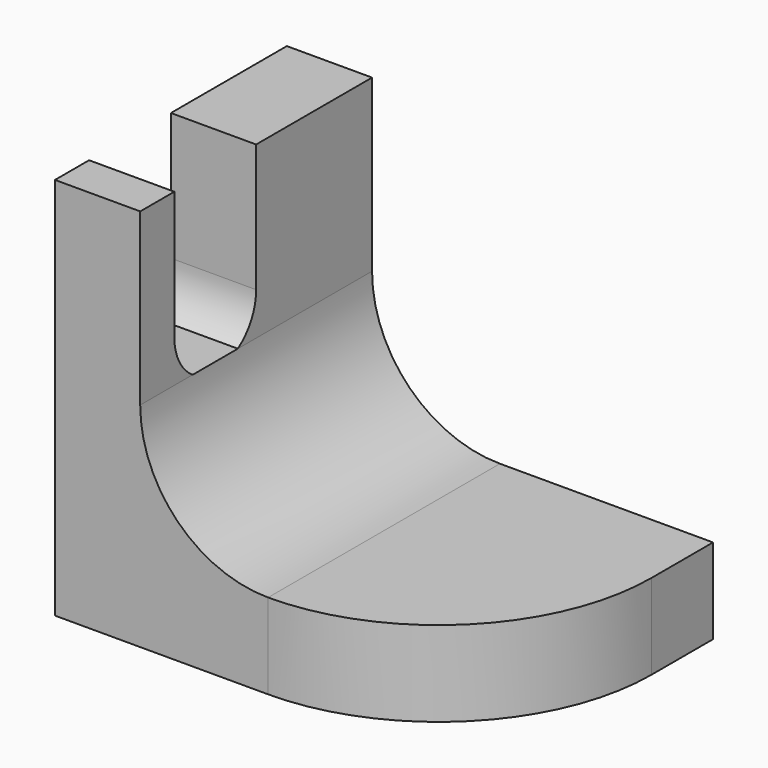
from build123d import *

# Parameters (mm, degrees)
F1_DEPTH = 340
F2_R     = 250
F4_DEPTH = 277.5


with BuildPart() as f1:
    # F0 (on Front) → F1 (new body)
    with BuildSketch(Plane.XZ):
        with BuildLine():
            Line((0, 450), (0, 0))
            Line((0, 0), (500, 0))
            Line((500, 0), (500, 100))
            Line((500, 100), (250, 100))
            ThreePointArc((250, 100), (143.933983, 143.933983), (100, 250))
            Line((100, 250), (100, 450))
            Line((100, 450), (0, 450))
        make_face()
    extrude(amount=-F1_DEPTH)

    # F2
    f2_edges = [f1.edges().sort_by_distance(p)[0] for p in [
        (500, 0, 50),
    ]]
    fillet(f2_edges, radius=F2_R)

    # F3 (on face) → F4 (cut)
    with BuildSketch(Plane.YZ.offset(100)):
        with BuildLine():
            Line((50, 450), (50, 300))
            ThreePointArc((50, 300), (57.132359, 271.627257), (76.833752, 250))
            Line((76.833752, 250), (143.166248, 250))
            ThreePointArc((143.166248, 250), (162.867641, 271.627257), (170, 300))
            Line((170, 300), (170, 450))
            Line((170, 450), (50, 450))
        make_face()
    extrude(amount=-F4_DEPTH, mode=Mode.SUBTRACT)


solid = f1.part
